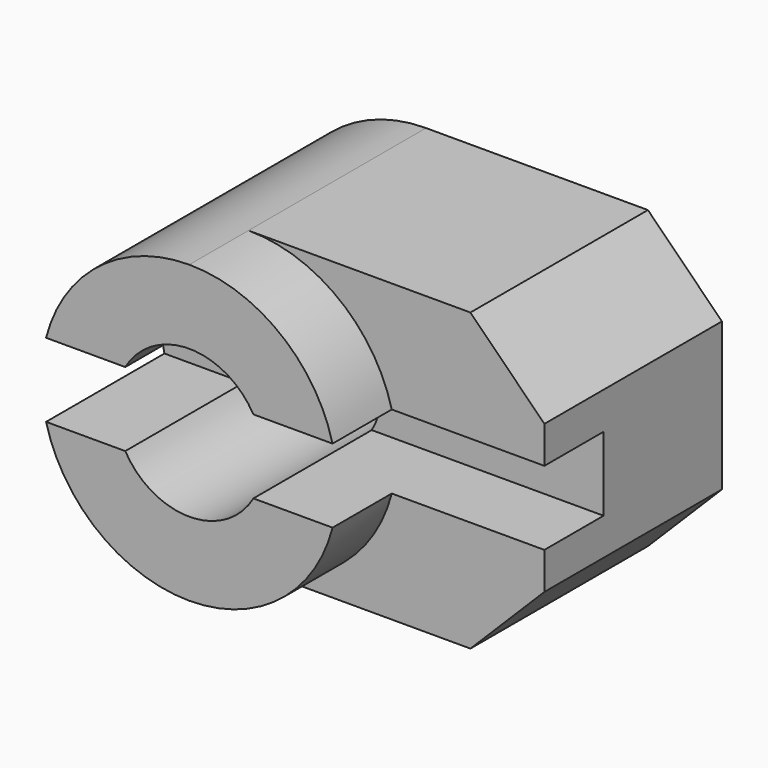
from build123d import *

# Parameters (mm, degrees)
F1_DEPTH      = 15
F2_DEPTH      = 5
F2_DEPTH_BACK = 15
F3_DEPTH      = 15.001
F4_DEPTH      = 5


with BuildPart() as f1:
    # F0 (on Front) → F1 (new body)
    with BuildSketch(Plane.XZ):
        with BuildLine():
            ThreePointArc((0, 10), (6.123724, 7.905694), (9.682458, 2.5))
            Line((9.682458, 2.5), (20, 2.5))
            Line((20, 2.5), (20, 5))
            Line((20, 5), (15, 10))
            Line((15, 10), (0, 10))
        make_face()
        with BuildLine():
            ThreePointArc((4.330127, 2.5), (4.829629, 1.294095), (5, 0))
            ThreePointArc((5, 0), (4.829629, -1.294095), (4.330127, -2.5))
            Line((4.330127, -2.5), (9.682458, -2.5))
            Line((9.682458, -2.5), (20, -2.5))
            Line((20, -2.5), (20, 2.5))
            Line((20, 2.5), (9.682458, 2.5))
            Line((9.682458, 2.5), (4.330127, 2.5))
        make_face()
        with BuildLine():
            Line((20, -2.5), (9.682458, -2.5))
            ThreePointArc((9.682458, -2.5), (6.123724, -7.905694), (0, -10))
            Line((0, -10), (15, -10))
            Line((15, -10), (20, -5))
            Line((20, -5), (20, -2.5))
        make_face()
        with BuildLine():
            ThreePointArc((4.330127, -2.5), (4.829629, -1.294095), (5, 0))
            ThreePointArc((5, 0), (4.829629, 1.294095), (4.330127, 2.5))
            ThreePointArc((4.330127, 2.5), (0, 5), (-4.330127, 2.5))
            ThreePointArc((-4.330127, 2.5), (-5, 0), (-4.330127, -2.5))
            ThreePointArc((-4.330127, -2.5), (0, -5), (4.330127, -2.5))
        make_face()
        with BuildLine():
            ThreePointArc((-4.330127, -2.5), (-5, 0), (-4.330127, 2.5))
            Line((-4.330127, 2.5), (-9.682458, 2.5))
            ThreePointArc((-9.682458, 2.5), (-10, 0), (-9.682458, -2.5))
            Line((-9.682458, -2.5), (-4.330127, -2.5))
        make_face()
    extrude(amount=-F1_DEPTH)

    # F0 (on Front) → F2 (join, two sides)
    with BuildSketch(Plane.XZ) as f2_sk:
        with BuildLine():
            ThreePointArc((-4.330127, 2.5), (0, 5), (4.330127, 2.5))
            Line((4.330127, 2.5), (9.682458, 2.5))
            ThreePointArc((9.682458, 2.5), (6.123724, 7.905694), (0, 10))
            ThreePointArc((0, 10), (-6.123724, 7.905694), (-9.682458, 2.5))
            Line((-9.682458, 2.5), (-4.330127, 2.5))
        make_face()
        with BuildLine():
            Line((9.682458, -2.5), (4.330127, -2.5))
            ThreePointArc((4.330127, -2.5), (0, -5), (-4.330127, -2.5))
            Line((-4.330127, -2.5), (-9.682458, -2.5))
            ThreePointArc((-9.682458, -2.5), (-6.123724, -7.905694), (0, -10))
            ThreePointArc((0, -10), (6.123724, -7.905694), (9.682458, -2.5))
        make_face()
    extrude(amount=F2_DEPTH)
    extrude(f2_sk.sketch, amount=-F2_DEPTH_BACK)

    # F0 (on Front) → F3 (cut, through all)
    with BuildSketch(Plane.XZ):
        with BuildLine():
            ThreePointArc((4.330127, -2.5), (4.829629, -1.294095), (5, 0))
            ThreePointArc((5, 0), (4.829629, 1.294095), (4.330127, 2.5))
            ThreePointArc((4.330127, 2.5), (0, 5), (-4.330127, 2.5))
            ThreePointArc((-4.330127, 2.5), (-5, 0), (-4.330127, -2.5))
            ThreePointArc((-4.330127, -2.5), (0, -5), (4.330127, -2.5))
        make_face()
    extrude(amount=-F3_DEPTH, mode=Mode.SUBTRACT)

    # F0 (on Front) → F4 (cut)
    with BuildSketch(Plane.XZ):
        with BuildLine():
            ThreePointArc((4.330127, 2.5), (4.829629, 1.294095), (5, 0))
            ThreePointArc((5, 0), (4.829629, -1.294095), (4.330127, -2.5))
            Line((4.330127, -2.5), (9.682458, -2.5))
            Line((9.682458, -2.5), (20, -2.5))
            Line((20, -2.5), (20, 2.5))
            Line((20, 2.5), (9.682458, 2.5))
            Line((9.682458, 2.5), (4.330127, 2.5))
        make_face()
        with BuildLine():
            ThreePointArc((-4.330127, -2.5), (-5, 0), (-4.330127, 2.5))
            Line((-4.330127, 2.5), (-9.682458, 2.5))
            ThreePointArc((-9.682458, 2.5), (-10, 0), (-9.682458, -2.5))
            Line((-9.682458, -2.5), (-4.330127, -2.5))
        make_face()
    extrude(amount=-F4_DEPTH, mode=Mode.SUBTRACT)


solid = f1.part
